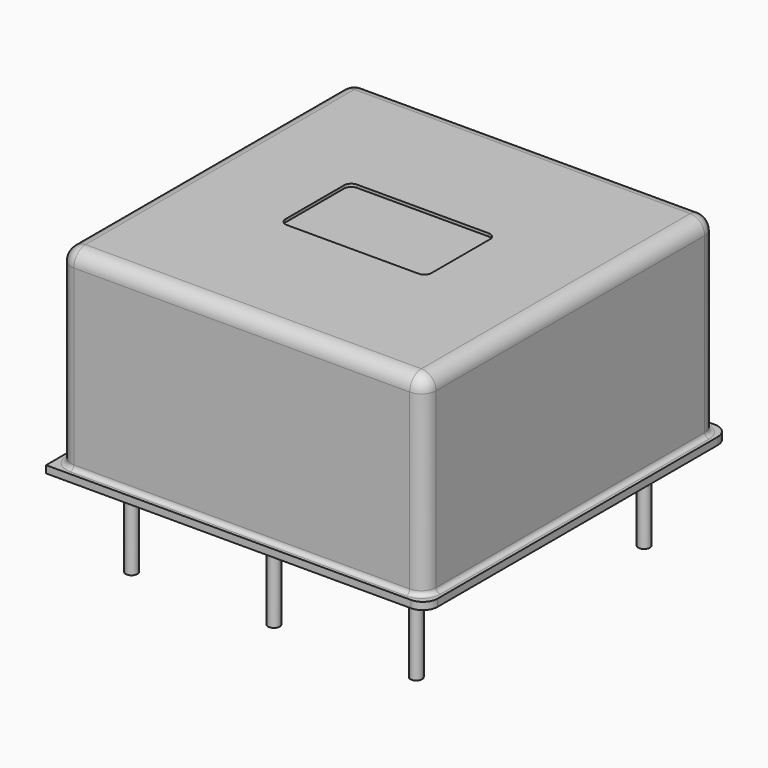
from build123d import *

# Parameters (mm, degrees)
SKETCH005_W    = 0.4
SKETCH005_H    = 6.2
SKETCH003_W    = 0.4
SKETCH003_H    = 6.2
ARRAY001_COUNT = 4
ARRAY_COUNT    = 4
PAD_DEPTH      = 0.5
PAD001_DEPTH   = 13.17
FILLET_R       = 0.3
FILLET001_R    = 1
POCKET_DEPTH   = 0.2


with BuildPart() as revolution002:
    # Sketch005 → Revolution002 (revolve)
    with BuildSketch(Plane.XZ.offset(9.75)):
        with Locations((0.2, -3.1)):
            Rectangle(SKETCH005_W, SKETCH005_H)
    revolve(axis=Axis((0, -9.75, 0), (0, 0, 1)))


with BuildPart() as array001:
    # Sketch003 → Revolution001 (revolve)
    with BuildSketch(Plane.XZ.offset(-9.75)):
        with Locations((9.95, -3.1)):
            Rectangle(SKETCH003_W, SKETCH003_H)
    revolve(axis=Axis((9.75, 9.75, 0), (0, 0, -1)))

    # Array001: Array001 ×4 about axis
    array001_axis = Axis((0, 0, 0), (0, 0, 1))


with BuildPart() as array001_1:
    add(array001.part)
    for i in range(1, ARRAY001_COUNT):
        add(array001.part.rotate(array001_axis, i * 360 / ARRAY001_COUNT))


with BuildPart() as array:
    # Sketch002 → Revolution (revolve)
    with BuildSketch(Plane.XZ.offset(-5.75)):
        with BuildLine():
            Line((5.75, -0.65), (5.75, 0))
            Line((5.75, 0), (6.4, 0))
            ThreePointArc((5.75, -0.65), (6.2096194078, -0.4596194078), (6.4, 0))
        make_face()
    revolve(axis=Axis((5.75, 5.75, 0), (0, 0, -1)))

    # Array: Array ×4 about axis
    array_axis = Axis((0, 0, 0), (0, 0, 1))


with BuildPart() as array_1:
    add(array.part)
    for i in range(1, ARRAY_COUNT):
        add(array.part.rotate(array_axis, i * 360 / ARRAY_COUNT))


with BuildPart() as fusion002:
    # Sketch → Pad (new body)
    with BuildSketch(Plane.XY):
        with BuildLine():
            Line((-12, 13), (12, 13))
            ThreePointArc((13, 12), (12.7071067812, 12.7071067812), (12, 13))
            Line((13, 12), (13, -12))
            ThreePointArc((12, -13), (12.7071067812, -12.7071067812), (13, -12))
            Line((12, -13), (-13, -13))
            Line((-13, -13), (-13, 12))
            ThreePointArc((-12, 13), (-12.7071067812, 12.7071067812), (-13, 12))
        make_face()
    extrude(amount=PAD_DEPTH)

    # Sketch001 → Pad001 (new body)
    with BuildSketch(Plane.XY.offset(0.5)):
        with BuildLine():
            Line((-11.5, 12.5), (11.5, 12.5))
            ThreePointArc((12.5, 11.5), (12.2071067812, 12.2071067812), (11.5, 12.5))
            Line((12.5, 11.5), (12.5, -11.5))
            ThreePointArc((11.5, -12.5), (12.2071067812, -12.2071067812), (12.5, -11.5))
            Line((11.5, -12.5), (-11.5, -12.5))
            ThreePointArc((-12.5, -11.5), (-12.2071067812, -12.2071067812), (-11.5, -12.5))
            Line((-12.5, -11.5), (-12.5, 11.5))
            ThreePointArc((-11.5, 12.5), (-12.2071067812, 12.2071067812), (-12.5, 11.5))
        make_face()
    extrude(amount=PAD001_DEPTH)

    # Fillet
    fillet_edges = [fusion002.edges().sort_by_distance(p)[0] for p in [
        (12.5, 0, 0.5),
        (12.207107, -12.207107, 0.5),
        (0, -12.5, 0.5),
        (12.207107, 12.207107, 0.5),
        (-12.207107, -12.207107, 0.5),
        (0, 12.5, 0.5),
        (-12.207107, 12.207107, 0.5),
        (-12.5, 0, 0.5),
    ]]
    fillet(fillet_edges, radius=FILLET_R)

    # Fillet001
    fillet001_edges = [fusion002.edges().sort_by_distance(p)[0] for p in [
        (-12.5, 0, 13.67),
        (-12.207107, 12.207107, 13.67),
        (0, 12.5, 13.67),
        (12.207107, 12.207107, 13.67),
        (12.5, 0, 13.67),
        (12.207107, -12.207107, 13.67),
        (0, -12.5, 13.67),
        (-12.207107, -12.207107, 13.67),
    ]]
    fillet(fillet001_edges, radius=FILLET001_R)

    # Fusion: union Array
    add(array_1.part)

    # Fusion001: union Array001
    add(array001_1.part)

    # Sketch004 → Pocket (cut)
    with BuildSketch(Plane.XY.offset(13.67)):
        with BuildLine():
            Line((-4.5, 3), (4.5, 3))
            ThreePointArc((5, 2.5), (4.8535533906, 2.8535533906), (4.5, 3))
            Line((5, 2.5), (5, -2.5))
            ThreePointArc((4.5, -3), (4.8535533906, -2.8535533906), (5, -2.5))
            Line((4.5, -3), (-4.5, -3))
            ThreePointArc((-5, -2.5), (-4.8535533906, -2.8535533906), (-4.5, -3))
            Line((-5, -2.5), (-5, 2.5))
            ThreePointArc((-4.5, 3), (-4.8535533906, 2.8535533906), (-5, 2.5))
        make_face()
    extrude(amount=-POCKET_DEPTH, mode=Mode.SUBTRACT)

    # Fusion002: union Revolution002
    add(revolution002.part)


solid = fusion002.part
